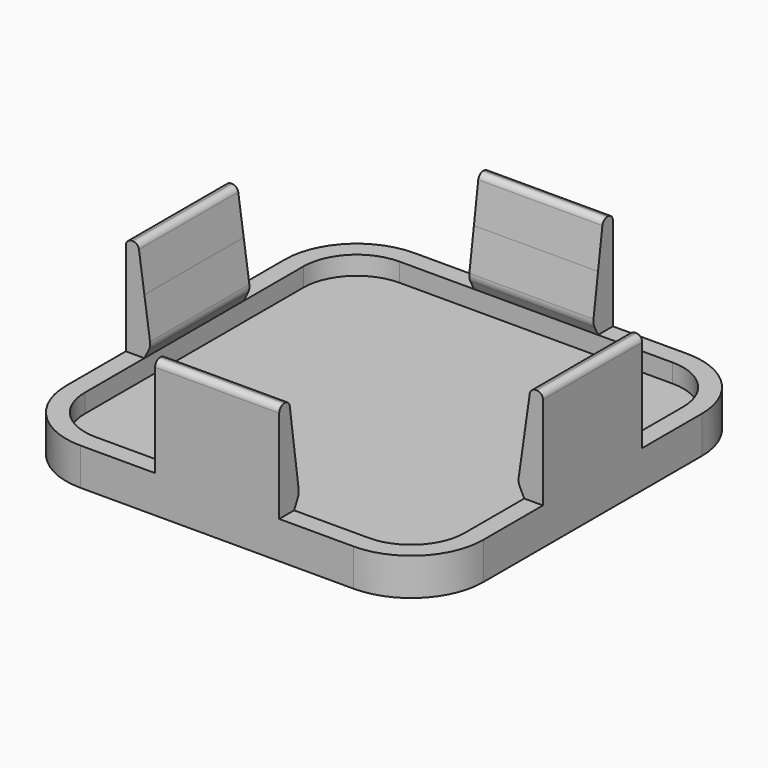
from build123d import *

# Parameters (mm, degrees)
F1_DEPTH      = 1.5
F3_DEPTH      = 1.5
F4_W          = 1
F4_H          = 1
F4_W_2        = 0.5
F5_DEPTH      = 5
F5_DEPTH_BACK = 5
F6_COUNT      = 4
F6_ANGLE      = 270


with BuildPart() as f1:
    # F0 (on Top) → F1 (new body)
    with BuildSketch(Plane.XY):
        with BuildLine():
            ThreePointArc((16.8, 11), (15.1012193309, 15.1012193309), (11, 16.8))
            Line((11, 16.8), (-11, 16.8))
            ThreePointArc((-11, 16.8), (-15.1012193309, 15.1012193309), (-16.8, 11))
            Line((-16.8, 11), (-16.8, -11))
            ThreePointArc((-16.8, -11), (-15.1012193309, -15.1012193309), (-11, -16.8))
            Line((-11, -16.8), (11, -16.8))
            ThreePointArc((11, -16.8), (15.1012193309, -15.1012193309), (16.8, -11))
            Line((16.8, -11), (16.8, 11))
        make_face()
        with BuildLine():
            Line((-11, 15.3), (11, 15.3))
            ThreePointArc((11, 15.3), (14.0405591591, 14.0405591591), (15.3, 11))
            Line((15.3, 11), (15.3, -11))
            ThreePointArc((15.3, -11), (14.0405591591, -14.0405591591), (11, -15.3))
            Line((11, -15.3), (-11, -15.3))
            ThreePointArc((-11, -15.3), (-14.0405591591, -14.0405591591), (-15.3, -11))
            Line((-15.3, -11), (-15.3, 11))
            ThreePointArc((-15.3, 11), (-14.0405591591, 14.0405591591), (-11, 15.3))
        make_face(mode=Mode.SUBTRACT)
        with BuildLine():
            ThreePointArc((15.3, 11), (14.0405591591, 14.0405591591), (11, 15.3))
            Line((11, 15.3), (-11, 15.3))
            ThreePointArc((-11, 15.3), (-14.0405591591, 14.0405591591), (-15.3, 11))
            Line((-15.3, 11), (-15.3, -11))
            ThreePointArc((-15.3, -11), (-14.0405591591, -14.0405591591), (-11, -15.3))
            Line((-11, -15.3), (11, -15.3))
            ThreePointArc((11, -15.3), (14.0405591591, -14.0405591591), (15.3, -11))
            Line((15.3, -11), (15.3, 11))
        make_face()
        with BuildLine():
            Line((-11, 15), (11, 15))
            ThreePointArc((11, 15), (13.8284271247, 13.8284271247), (15, 11))
            Line((15, 11), (15, -11))
            ThreePointArc((15, -11), (13.8284271247, -13.8284271247), (11, -15))
            Line((11, -15), (-11, -15))
            ThreePointArc((-11, -15), (-13.8284271247, -13.8284271247), (-15, -11))
            Line((-15, -11), (-15, 11))
            ThreePointArc((-15, 11), (-13.8284271247, 13.8284271247), (-11, 15))
        make_face(mode=Mode.SUBTRACT)
        with BuildLine():
            ThreePointArc((15, 11), (13.8284271247, 13.8284271247), (11, 15))
            Line((11, 15), (-11, 15))
            ThreePointArc((-11, 15), (-13.8284271247, 13.8284271247), (-15, 11))
            Line((-15, 11), (-15, -11))
            ThreePointArc((-15, -11), (-13.8284271247, -13.8284271247), (-11, -15))
            Line((-11, -15), (11, -15))
            ThreePointArc((11, -15), (13.8284271247, -13.8284271247), (15, -11))
            Line((15, -11), (15, 11))
        make_face()
    extrude(amount=F1_DEPTH)

    # F2 (on face) → F3 (join)
    with BuildSketch(Plane.XY.offset(1.5)):
        with BuildLine():
            Line((16.8, -11), (16.8, 11))
            ThreePointArc((16.8, 11), (15.1012193309, 15.1012193309), (11, 16.8))
            Line((11, 16.8), (-11, 16.8))
            ThreePointArc((-11, 16.8), (-15.1012193309, 15.1012193309), (-16.8, 11))
            Line((-16.8, 11), (-16.8, -11))
            ThreePointArc((-16.8, -11), (-15.1012193309, -15.1012193309), (-11, -16.8))
            Line((-11, -16.8), (11, -16.8))
            ThreePointArc((11, -16.8), (15.1012193309, -15.1012193309), (16.8, -11))
        make_face()
        with BuildLine():
            Line((-11, 15.3), (11, 15.3))
            ThreePointArc((11, 15.3), (14.0405591591, 14.0405591591), (15.3, 11))
            Line((15.3, 11), (15.3, -11))
            ThreePointArc((15.3, -11), (14.0405591591, -14.0405591591), (11, -15.3))
            Line((11, -15.3), (-11, -15.3))
            ThreePointArc((-11, -15.3), (-14.0405591591, -14.0405591591), (-15.3, -11))
            Line((-15.3, -11), (-15.3, 11))
            ThreePointArc((-15.3, 11), (-14.0405591591, 14.0405591591), (-11, 15.3))
        make_face(mode=Mode.SUBTRACT)
    extrude(amount=F3_DEPTH)

    # F4 (on Front) → F5 (join, two sides)
    with BuildSketch(Plane.XZ) as f5_sk:
        with BuildLine():
            Line((-16.8, 10.5), (-16.8, 4))
            Line((-16.8, 4), (-15.8, 4))
            Line((-15.8, 4), (-15.8, 10.7488969095))
            ThreePointArc((-15.8, 10.7488969095), (-15.9830967627, 10.9326941499), (-16.2336477008, 11))
            Line((-16.2336477008, 11), (-16.3, 11))
            ThreePointArc((-16.3, 11), (-16.6535533906, 10.8535533906), (-16.8, 10.5))
        make_face()
        with Locations((-16.3, 3.5)):
            Rectangle(F4_W, F4_H)
        with Locations((-15.55, 3.5)):
            Rectangle(F4_W_2, F4_H)
        with BuildLine():
            Line((-15.8, 10.7488969095), (-15.8, 4))
            Line((-15.8, 4), (-15.3, 4))
            Line((-15.3, 4), (-15.3, 7.5))
            Line((-15.3, 7.5), (-15.738672954, 10.5707106781))
            ThreePointArc((-15.738672954, 10.5707106781), (-15.7608660432, 10.6627190959), (-15.8, 10.7488969095))
        make_face()
        with BuildLine():
            Line((-15.3, 7.5), (-15.3, 4))
            Line((-15.3, 4), (-14.848307792, 4))
            ThreePointArc((-14.848307792, 4), (-14.8342154179, 4.154457802), (-14.8441767052, 4.3092369361))
            Line((-14.8441767052, 4.3092369361), (-15.3, 7.5))
        make_face()
        with BuildLine():
            Line((-15.3, 4), (-15.3, 3))
            Line((-15.3, 3), (-14.9396990078, 3.7206019844))
            ThreePointArc((-14.9396990078, 3.7206019844), (-14.8836806771, 3.8569244249), (-14.848307792, 4))
            Line((-14.848307792, 4), (-15.3, 4))
        make_face()
    extrude(amount=F5_DEPTH)
    extrude(f5_sk.sketch, amount=-F5_DEPTH_BACK)

    # F6: F1 ×4 about axis
    f6_axis = Axis((0, 0, 16.5911819786), (0, 0, 1))


with BuildPart() as f1_1:
    add(f1.part)
    for i in range(1, F6_COUNT):
        add(f1.part.rotate(f6_axis, i * F6_ANGLE / (F6_COUNT - 1)))


solid = f1_1.part
